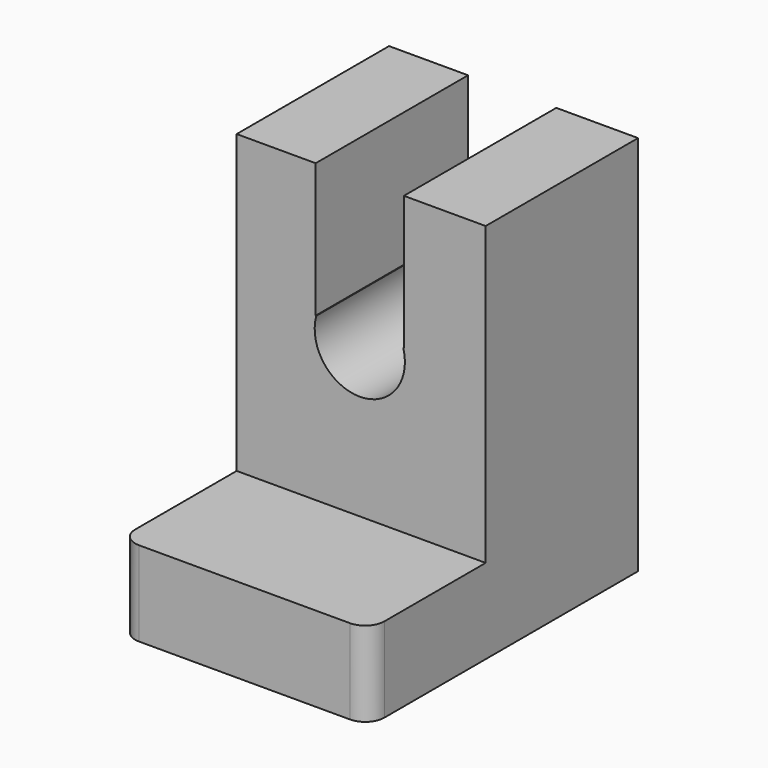
from build123d import *

# Parameters (mm, degrees)
F0_W     = 66.409525
F0_H     = 101.697244
F1_DEPTH = 50.8
F2_W     = 23.525144
F2_H     = 35.777826
F3_DEPTH = 78.232
F4_R     = 12.030111
F5_DEPTH = 92.202
F6_W     = 66.409525
F6_H     = 38.883481
F7_DEPTH = 22.606
F8_R     = 5.08


with BuildPart() as f1:
    # F0 (on Front) → F1 (new body)
    with BuildSketch(Plane.XZ):
        with Locations((0.122526, 5.146127)):
            Rectangle(F0_W, F0_H)
    extrude(amount=F1_DEPTH)

    # F2 (on face) → F3 (cut)
    with BuildSketch(Plane(origin=(0, 0, 0), x_dir=(-1, 0, 0), z_dir=(0, 1, 0))):
        with Locations((0.245053, 38.105836)):
            Rectangle(F2_W, F2_H)
    extrude(amount=-F3_DEPTH, mode=Mode.SUBTRACT)

    # F4 (on face) → F5 (cut)
    with BuildSketch(Plane.XZ.offset(50.8)):
        with Locations((-0.245053, 17.031224)):
            Circle(F4_R)
    extrude(amount=-F5_DEPTH, mode=Mode.SUBTRACT)

    # F6 (on face) → F7 (join)
    with BuildSketch(Plane(origin=(0, 0, -45.702495), x_dir=(1, 0, 0), z_dir=(0, 0, -1))):
        with Locations((0.122526, 70.24174)):
            Rectangle(F6_W, F6_H)
    extrude(amount=-F7_DEPTH)

    # F8
    f8_edges = [f1.edges().sort_by_distance(p)[0] for p in [
        (33.327289, -89.683481, -34.399495),
        (-33.082236, -89.683481, -34.399495),
    ]]
    fillet(f8_edges, radius=F8_R)


solid = f1.part
